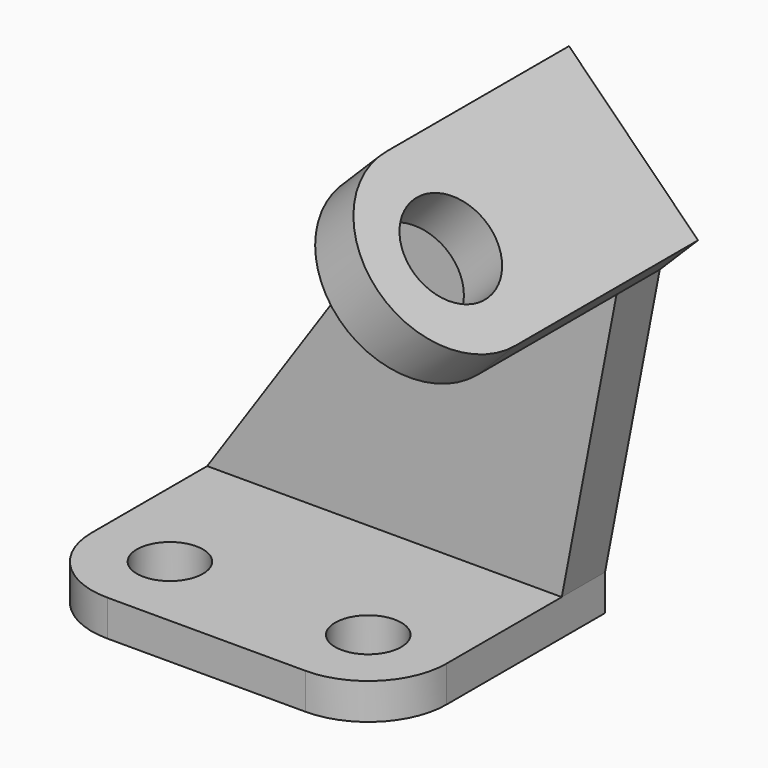
from build123d import *

# Parameters (mm, degrees)
F0_R     = 5.5
F1_DEPTH = 6
F3_DEPTH = 9
F5_DEPTH = 9
F6_R     = 8
F7_DEPTH = 9


with BuildPart() as f1:
    # F0 (on Top) → F1 (new body)
    with BuildSketch(Plane.XY):
        with BuildLine():
            Line((59, 37), (0, 37))
            Line((0, 37), (0, 13))
            ThreePointArc((0, 13), (3.807612, 3.807612), (13, 0))
            Line((13, 0), (46, 0))
            ThreePointArc((46, 0), (55.192388, 3.807612), (59, 13))
            Line((59, 13), (59, 37))
        make_face()
        with Locations((13, 13)):
            Circle(F0_R, mode=Mode.SUBTRACT)
        with Locations((46, 13)):
            Circle(F0_R, mode=Mode.SUBTRACT)
    extrude(amount=F1_DEPTH)

    # F2 (on face) → F3 (join)
    with BuildSketch(Plane(origin=(0, 37, 0), x_dir=(-1, 0, 0), z_dir=(0, 1, 0))):
        Polygon((-68.103316, 53.267747), (-59, 6), (-59, 0), (0, 0), (0, 6), (-46.63881, 74.732253), align=None)
    extrude(amount=F3_DEPTH)

    # F4 (on face) → F5 (join)
    with BuildSketch(Plane(origin=(60.685531, 0, 60.685531), x_dir=(0, 1, 0), z_dir=(0.707107, 0, 0.707107))):
        with BuildLine():
            Line((46, 19.865064), (37, 19.865064))
            Line((37, 19.865064), (8, 19.865064))
            ThreePointArc((8, 19.865064), (-7.177698, 4.687367), (8, -10.490331))
            Line((8, -10.490331), (37, -10.490331))
            Line((37, -10.490331), (46, -10.490331))
            Line((46, -10.490331), (46, 19.865064))
        make_face()
    extrude(amount=F5_DEPTH)

    # F6 (on face) → F7 (cut)
    with BuildSketch(Plane(origin=(67.049492, 0, 67.049492), x_dir=(0, 1, 0), z_dir=(0.707107, 0, 0.707107))):
        with Locations((8, 4.687367)):
            Circle(F6_R)
    extrude(amount=-F7_DEPTH, mode=Mode.SUBTRACT)


solid = f1.part
